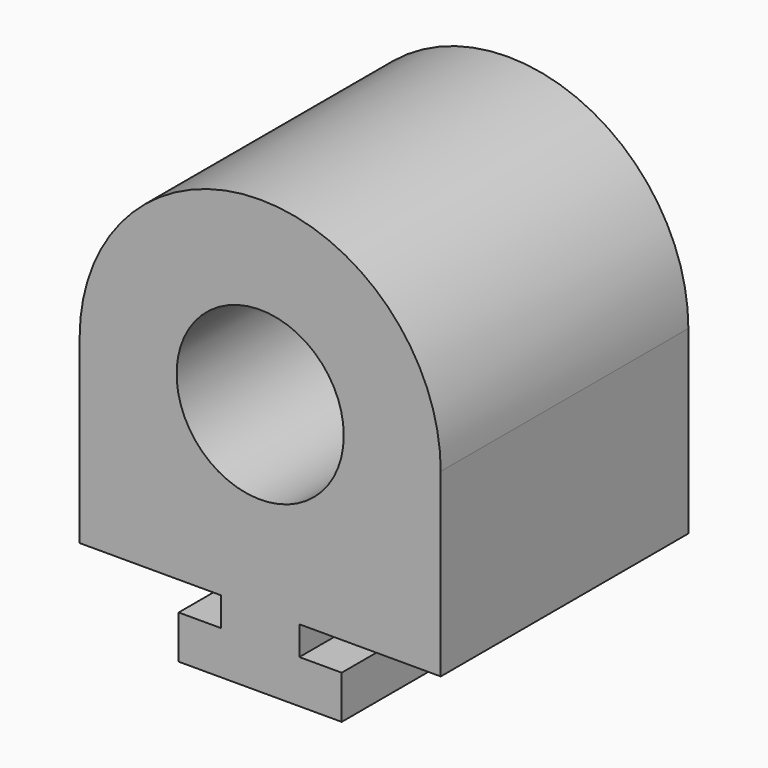
from build123d import *

# Parameters (mm, degrees)
F1_DEPTH = 6.35
F2_R     = 5.1435
F3_DEPTH = 19.05


with BuildPart() as f1:
    # F0 (on Front) → F1 (new body)
    with BuildSketch(Plane.XZ):
        Polygon((22.225, 0), (0, 0), (0, -4.7625), (8.6995, -4.7625), (8.6995, -6.5405), (6.096, -6.5405), (6.096, -9.2075), (16.129, -9.2075), (16.129, -6.5405), (13.5255, -6.5405), (13.5255, -4.7625), (22.225, -4.7625), align=None)
    extrude(amount=F1_DEPTH)

    # F2 (on face) → F3 (join)
    with BuildSketch(Plane.XZ.offset(6.35)):
        with BuildLine():
            Line((0, 6.35), (0, 0))
            Line((0, 0), (22.225, 0))
            Line((22.225, 0), (22.225, 6.35))
            ThreePointArc((22.225, 6.35), (11.1125, 17.4625), (0, 6.35))
        make_face()
        with Locations((11.1125, 6.35)):
            Circle(F2_R, mode=Mode.SUBTRACT)
        Polygon((0, 0), (0, -4.7625), (8.6995, -4.7625), (8.6995, -6.5405), (6.096, -6.5405), (6.096, -9.2075), (16.129, -9.2075), (16.129, -6.5405), (13.5255, -6.5405), (13.5255, -4.7625), (22.225, -4.7625), (22.225, 0), align=None)
    extrude(amount=-F3_DEPTH)


solid = f1.part
